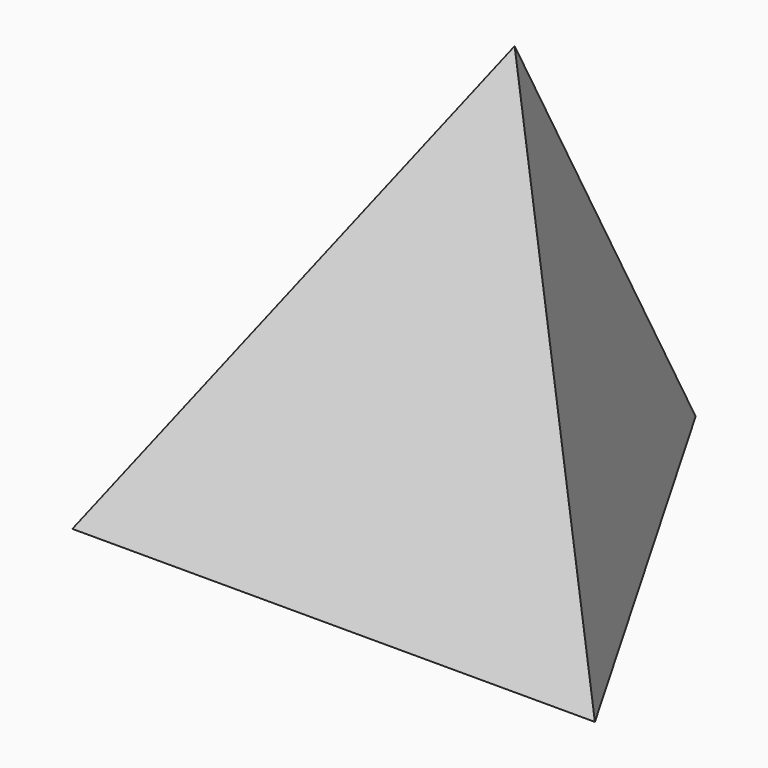
from build123d import *


with BuildPart() as f3:
    # F0 (on Top) → F3 section 0
    with BuildSketch(Plane.XY, mode=Mode.PRIVATE) as f3_s0:
        Polygon((0, 105.708813), (-127, -114.26164), (127, -114.26164), align=None)
    loft([f3_s0.sketch, Vertex(0, -4.276413, 203.2)])


solid = f3.part
